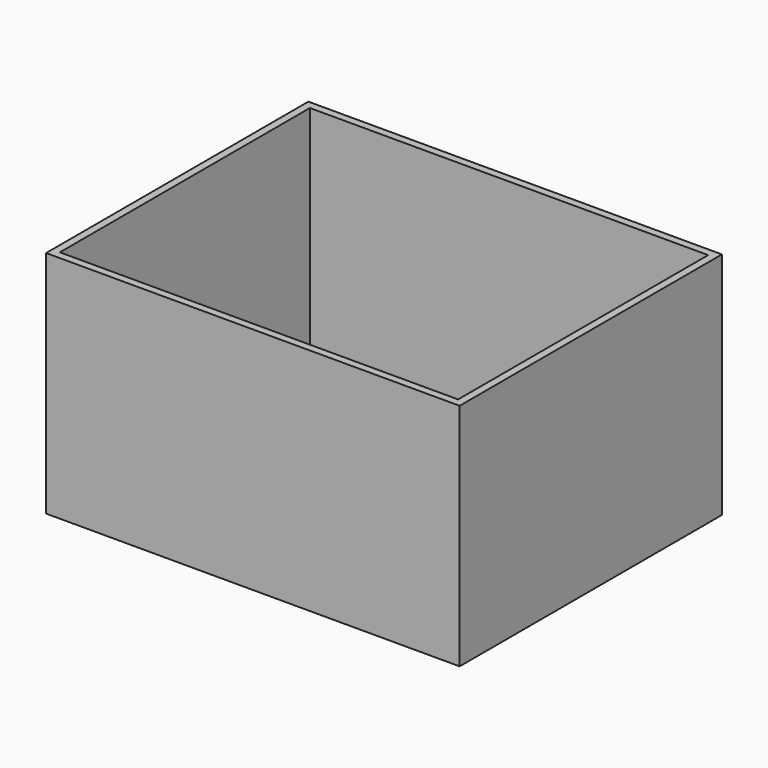
from build123d import *

# Parameters (mm, degrees)
F0_W     = 137.367442
F0_H     = 108.906533
F1_DEPTH = 76.2
F2_T     = -2.54


with BuildPart() as f1:
    # F0 (on Top) → F1 (new body)
    with BuildSketch(Plane.XY):
        with Locations((-2.032921, -2.178131)):
            Rectangle(F0_W, F0_H)
        with Locations((-2.032921, -2.178131)):
            Rectangle(F0_W, F0_H)
    extrude(amount=F1_DEPTH)

    # F2
    f2_openings = [f1.faces().sort_by_distance(p)[0] for p in [
        (-2.032921, -2.178131, 76.2),
    ]]
    offset(amount=F2_T, openings=f2_openings)


solid = f1.part
